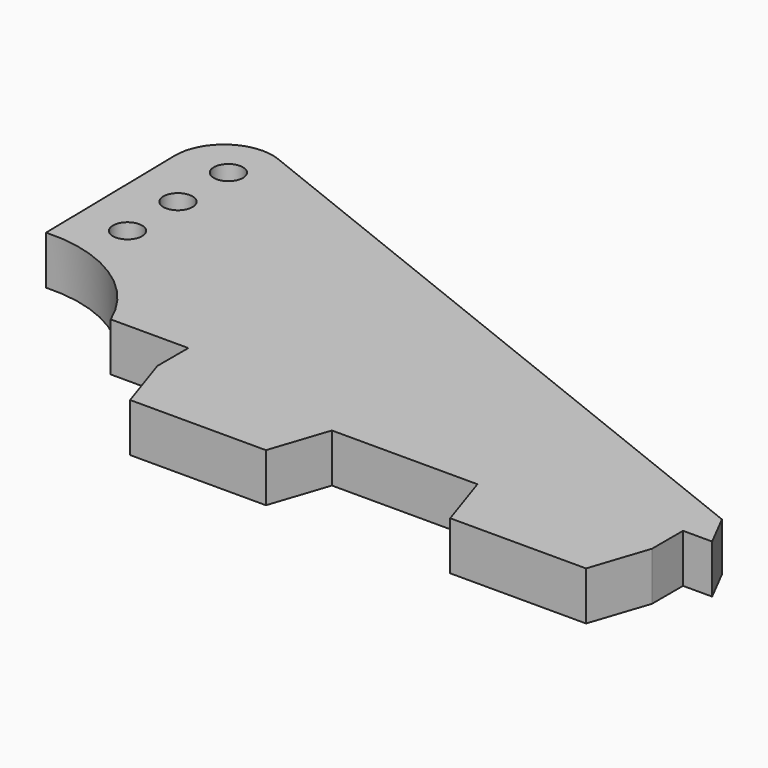
from build123d import *

# Parameters (mm, degrees)
F0_R     = 0.75
F1_DEPTH = 2.5


with BuildPart() as f1:
    # F0 (on Top) → F1 (new body)
    with BuildSketch(Plane.XY):
        with BuildLine():
            Line((4.462157, 19.713312), (3.560812, 21.470347))
            Line((3.560812, 21.470347), (-30.017679, 34.838138))
            ThreePointArc((-30.017679, 34.838138), (-32.363396, 34.572289), (-33.44199, 32.472361))
            Line((-33.44199, 32.472361), (-33.295908, 23.9945))
            ThreePointArc((-33.295908, 23.9945), (-29.243428, 22.916976), (-26.537843, 19.713312))
            Line((-26.537843, 19.713312), (-22.537843, 19.713312))
            Line((-22.537843, 19.713312), (-22.537843, 17.713312))
            Line((-22.537843, 17.713312), (-21.537843, 14.713312))
            Line((-21.537843, 14.713312), (-14.537843, 14.713312))
            Line((-14.537843, 14.713312), (-13.537843, 17.713312))
            Line((-13.537843, 17.713312), (-6.037843, 17.713312))
            Line((-6.037843, 17.713312), (-5.037843, 14.713312))
            Line((-5.037843, 14.713312), (1.962157, 14.713312))
            Line((1.962157, 14.713312), (2.962157, 17.713312))
            Line((2.962157, 17.713312), (2.962157, 19.713312))
            Line((2.962157, 19.713312), (4.462157, 19.713312))
        make_face()
        with Locations((-30.833643, 26.162979)):
            Circle(F0_R, mode=Mode.SUBTRACT)
        with Locations((-30.833643, 29.412979)):
            Circle(F0_R, mode=Mode.SUBTRACT)
        with Locations((-30.833643, 32.662979)):
            Circle(F0_R, mode=Mode.SUBTRACT)
    extrude(amount=F1_DEPTH)


solid = f1.part
